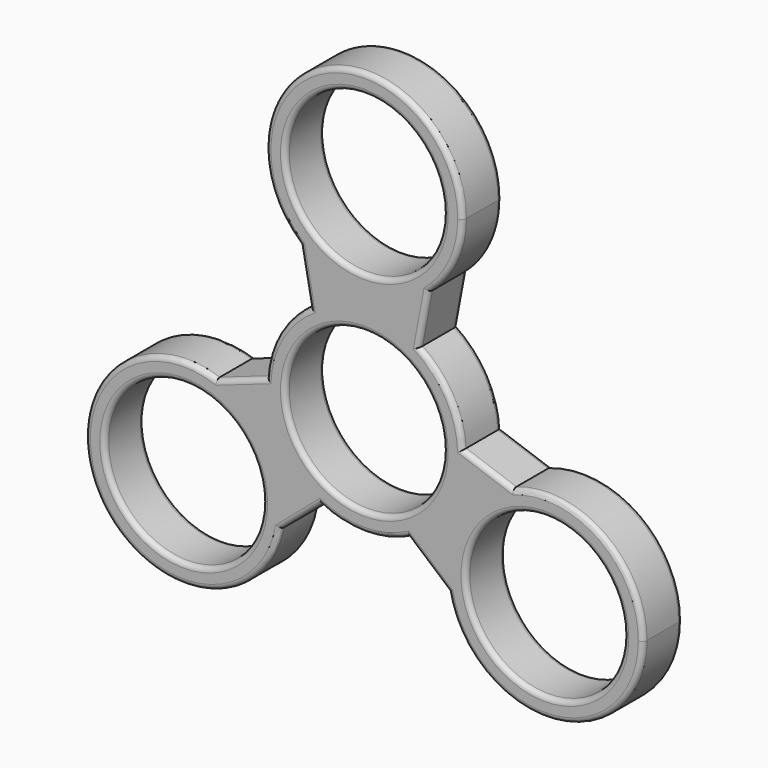
from build123d import *

# Parameters (mm, degrees)
F0_R     = 11.25
F1_DEPTH = 7
F2_R     = 0.7
F3_R     = 0.7


with BuildPart() as f1:
    # F0 (on Front) → F1 (new body)
    with BuildSketch(Plane.XZ):
        with BuildLine():
            ThreePointArc((6.223905, -12.540455), (11.898207, -7.37785), (14, 0))
            ThreePointArc((14, 0), (13.993075, 0.440302), (13.972305, 0.880168))
            ThreePointArc((13.972305, 0.880168), (12.124356, 7), (7.7484, 11.660287))
            ThreePointArc((7.7484, 11.660287), (0, 14), (-7.7484, 11.660287))
            ThreePointArc((-7.7484, 11.660287), (-12.124356, 7), (-13.972305, 0.880168))
            ThreePointArc((-13.972305, 0.880168), (-12.124356, -7), (-6.223905, -12.540455))
            ThreePointArc((-6.223905, -12.540455), (0, -14), (6.223905, -12.540455))
        make_face()
        Circle(F0_R, mode=Mode.SUBTRACT)
        with BuildLine():
            ThreePointArc((13.972305, 0.880168), (13.993075, 0.440302), (14, 0))
            ThreePointArc((14, 0), (11.898207, -7.37785), (6.223905, -12.540455))
            Line((6.223905, -12.540455), (11.964756, -17.475032))
            ThreePointArc((11.964756, -17.475032), (13.591541, -7.84708), (21.1162, -1.624267))
            Line((21.1162, -1.624267), (13.972305, 0.880168))
        make_face()
        with BuildLine():
            ThreePointArc((-7.7484, 11.660287), (0, 14), (7.7484, 11.660287))
            Line((7.7484, 11.660287), (9.151443, 19.099299))
            ThreePointArc((9.151443, 19.099299), (0, 15.69416), (-9.151443, 19.099299))
            Line((-9.151443, 19.099299), (-7.7484, 11.660287))
        make_face()
        with BuildLine():
            ThreePointArc((39.715897, -14.84708), (33.827748, -3.436651), (21.1162, -1.624267))
            ThreePointArc((21.1162, -1.624267), (13.591541, -7.84708), (11.964756, -17.475032))
            ThreePointArc((11.964756, -17.475032), (27.035751, -28.784726), (39.715897, -14.84708))
        make_face()
        with Locations((25.715897, -14.84708)):
            Circle(F0_R, mode=Mode.SUBTRACT)
        with BuildLine():
            Line((-11.964756, -17.475032), (-6.223905, -12.540455))
            ThreePointArc((-6.223905, -12.540455), (-12.124356, -7), (-13.972305, 0.880168))
            Line((-13.972305, 0.880168), (-21.1162, -1.624267))
            ThreePointArc((-21.1162, -1.624267), (-14.305468, -6.73523), (-11.715897, -14.84708))
            ThreePointArc((-11.715897, -14.84708), (-11.778251, -16.166934), (-11.964756, -17.475032))
        make_face()
        with BuildLine():
            ThreePointArc((-9.151443, 19.099299), (0, 15.69416), (9.151443, 19.099299))
            ThreePointArc((9.151443, 19.099299), (12.730283, 23.868364), (14, 29.69416))
            ThreePointArc((14, 29.69416), (-5.825796, 42.424443), (-9.151443, 19.099299))
        make_face()
        with Locations((0, 29.69416)):
            Circle(F0_R, mode=Mode.SUBTRACT)
        with BuildLine():
            ThreePointArc((-21.1162, -1.624267), (-37.840253, -21.84708), (-11.964756, -17.475032))
            ThreePointArc((-11.964756, -17.475032), (-11.778251, -16.166934), (-11.715897, -14.84708))
            ThreePointArc((-11.715897, -14.84708), (-14.305468, -6.73523), (-21.1162, -1.624267))
        make_face()
        with Locations((-25.715897, -14.84708)):
            Circle(F0_R, mode=Mode.SUBTRACT)
    extrude(amount=F1_DEPTH)

    # F2
    f2_edges = [f1.edges().sort_by_distance(p)[0] for p in [
        (9.094331, 0, -15.007743),
        (37.840253, 0, -21.84708),
        (17.544252, 0, -0.37205),
        (12.124356, 0, 7),
        (8.449922, 0, 15.379793),
        (0, 0, 43.69416),
        (-8.449922, 0, 15.379793),
        (-12.124356, 0, 7),
        (-17.544252, 0, -0.37205),
        (-37.840253, 0, -21.84708),
        (-9.094331, 0, -15.007743),
        (0, 0, -14),
        (-11.25, 0, 0),
        (14.465897, 0, -14.84708),
        (-11.25, 0, 29.69416),
        (-36.965897, 0, -14.84708),
    ]]
    fillet(f2_edges, radius=F2_R)

    # F3
    f3_edges = [f1.edges().sort_by_distance(p)[0] for p in [
        (0, -7, -14),
        (9.094331, -7, -15.007743),
        (37.840253, -7, -21.84708),
        (17.544252, -7, -0.37205),
        (12.124356, -7, 7),
        (8.449922, -7, 15.379793),
        (0, -7, 43.69416),
        (-8.449922, -7, 15.379793),
        (-12.124356, -7, 7),
        (-17.544252, -7, -0.37205),
        (-37.840253, -7, -21.84708),
        (-9.094331, -7, -15.007743),
        (-11.25, -7, 0),
        (14.465897, -7, -14.84708),
        (-11.25, -7, 29.69416),
        (-36.965897, -7, -14.84708),
    ]]
    fillet(f3_edges, radius=F3_R)


solid = f1.part
